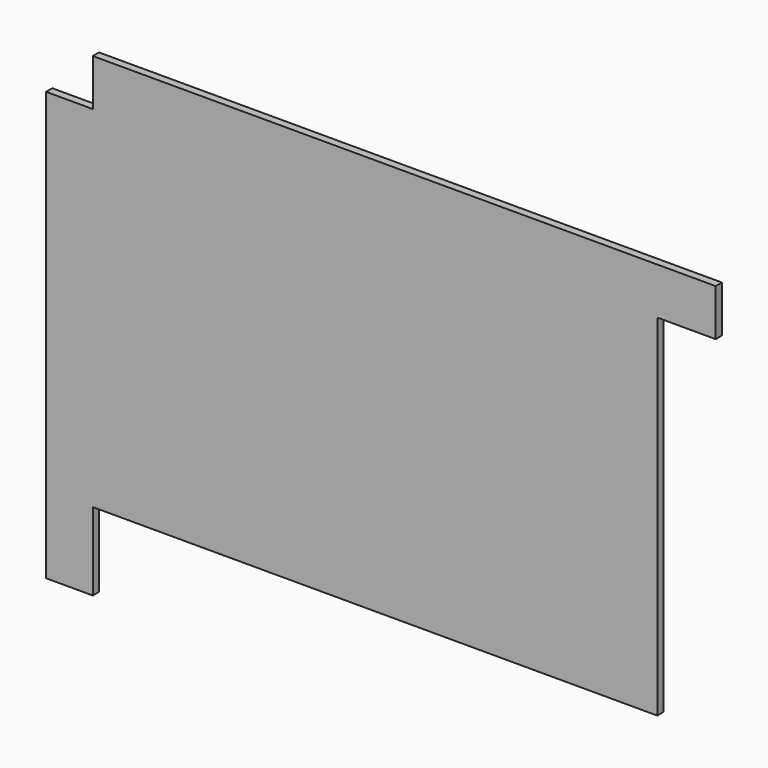
from build123d import *

# Parameters (mm, degrees)
PAD_DEPTH = 2


with BuildPart() as part:
    # Sketch → Pad (new body)
    with BuildSketch(Plane.XZ):
        Polygon((-0.507831, 0.029803), (-0.507831, 110.029803), (11.492169, 110.029803), (11.492169, 122.029803), (171.492169, 122.029803), (171.492169, 110.029803), (156.492169, 110.029803), (156.492169, 20.029803), (11.492169, 20.029803), (11.492169, 0.029803), align=None)
    extrude(amount=PAD_DEPTH)


solid = part.part
